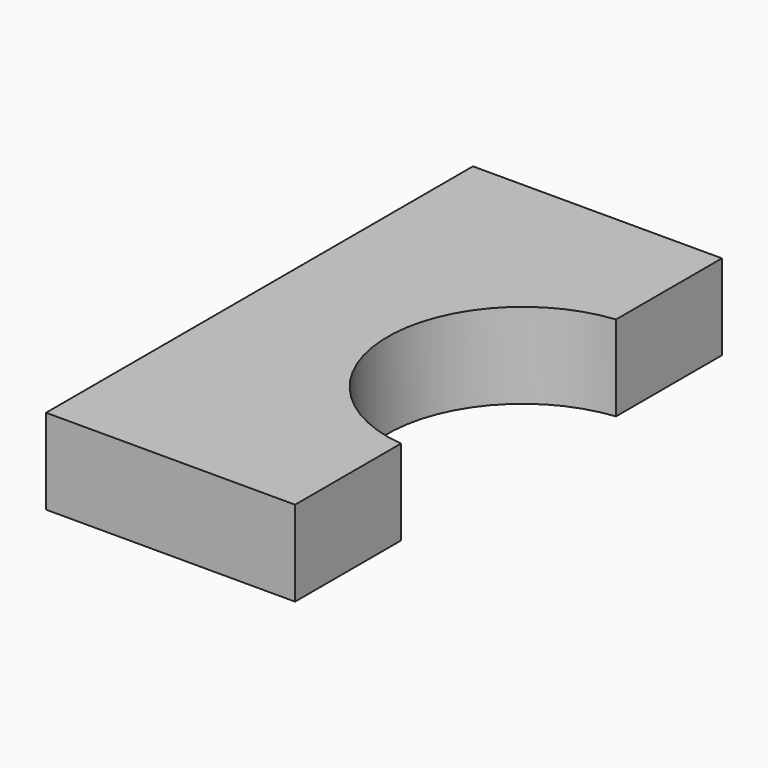
from build123d import *

# Parameters (mm, degrees)
F0_W     = 889
F0_H     = 304.8
F1_DEPTH = 952.5
F3_DEPTH = 304.8


with BuildPart() as f1:
    # F0 (on Front) → F1 (new body, symmetric)
    with BuildSketch(Plane.XZ):
        Rectangle(F0_W, F0_H)
    extrude(amount=F1_DEPTH, both=True)

    # F2 (on face) → F3 (cut, through all)
    with BuildSketch(Plane.XY.offset(152.4)):
        with BuildLine():
            ThreePointArc((444.5, 479.9188681434), (136.5390489476, 322.7899316893), (12.7, 0))
            Line((12.7, 0), (444.5, 0))
            Line((444.5, 0), (444.5, 479.9188681434))
        make_face()
        with BuildLine():
            Line((444.5, 0), (12.7, 0))
            ThreePointArc((12.7, 0), (136.5390489476, -322.7899316893), (444.5, -479.9188681434))
            Line((444.5, -479.9188681434), (444.5, 0))
        make_face()
    extrude(amount=-F3_DEPTH, mode=Mode.SUBTRACT)


solid = f1.part
